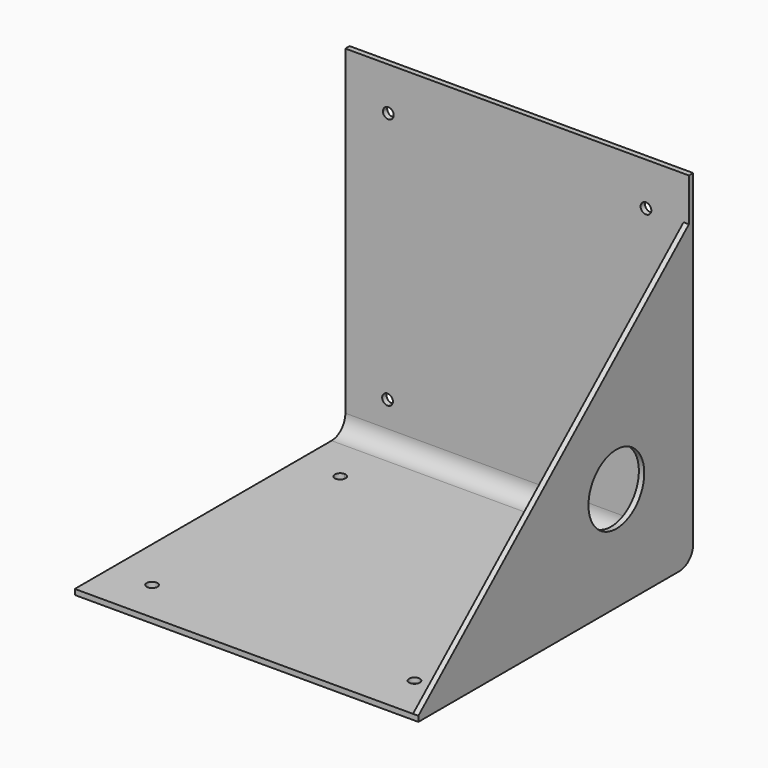
from build123d import *

# Parameters (mm, degrees)
F1_DEPTH  = 101.6
F0_W      = 50.8
F0_H      = 100.0125
F0_R      = 1.5875
F2_DEPTH  = 1.5875
F4_DEPTH  = 1.5875
F5_R      = 5.08
F6_R      = 5.08
F7_R      = 1.5875
F8_DEPTH  = 25.4
F10_R     = 10.3124
F11_DEPTH = 25.4


with BuildPart() as f1:
    # F0 (on Front) → F1 (new body)
    with BuildSketch(Plane.XZ):
        Polygon((-38.6839361429, -44.711994803), (-51.3839361429, -44.711994803), (-51.3839361429, -46.299494803), (50.2160638571, -46.299494803), (50.2160638571, -44.711994803), (-0.5839361429, -44.711994803), align=None)
    extrude(amount=F1_DEPTH)

    # F0 (on Front) → F2 (join)
    with BuildSketch(Plane.XZ):
        with BuildLine():
            Line((-38.6839361429, 55.300505197), (-51.3839361429, 55.300505197))
            Line((-51.3839361429, 55.300505197), (-51.3839361429, 42.600505197))
            Line((-51.3839361429, 42.600505197), (-40.2714361429, 42.600505197))
            ThreePointArc((-40.2714361429, 42.600505197), (-39.8064681581, 43.7230372122), (-38.6839361429, 44.188005197))
            Line((-38.6839361429, 44.188005197), (-38.6839361429, 55.300505197))
        make_face()
        with BuildLine():
            Line((-0.5839361429, 55.300505197), (-38.6839361429, 55.300505197))
            Line((-38.6839361429, 55.300505197), (-38.6839361429, 44.188005197))
            ThreePointArc((-38.6839361429, 44.188005197), (-37.5614041278, 43.7230372122), (-37.0964361429, 42.600505197))
            ThreePointArc((-37.0964361429, 42.600505197), (-38.6839361429, 41.013005197), (-40.2714361429, 42.600505197))
            Line((-40.2714361429, 42.600505197), (-51.3839361429, 42.600505197))
            Line((-51.3839361429, 42.600505197), (-51.3839361429, -44.711994803))
            Line((-51.3839361429, -44.711994803), (-38.6839361429, -44.711994803))
            Line((-38.6839361429, -44.711994803), (-0.5839361429, -44.711994803))
            Line((-0.5839361429, -44.711994803), (-0.5839361429, 55.300505197))
        make_face()
        with BuildLine():
            ThreePointArc((-37.3273452338, -32.01409415), (-37.7821543509, -33.1263745165), (-38.8859815975, -33.6013317316))
            ThreePointArc((-38.8859815975, -33.6013317316), (-40.0475361168, -30.9018137835), (-37.3273452338, -32.01409415))
        make_face(mode=Mode.SUBTRACT)
        with Locations((24.8160638571, 5.294255197)):
            Rectangle(F0_W, F0_H)
        with Locations((37.746972948, -32.01409415)):
            Circle(F0_R, mode=Mode.SUBTRACT)
        with Locations((37.5160638571, 42.600505197)):
            Circle(F0_R, mode=Mode.SUBTRACT)
        Polygon((-38.6839361429, -44.711994803), (-51.3839361429, -44.711994803), (-51.3839361429, -46.299494803), (50.2160638571, -46.299494803), (50.2160638571, -44.711994803), (-0.5839361429, -44.711994803), align=None)
    extrude(amount=F2_DEPTH)

    # F5
    f5_edges = [f1.edges().sort_by_distance(p)[0] for p in [
        (-0.583936, 0, -46.299495),
    ]]
    fillet(f5_edges, radius=F5_R)

    # F6
    f6_edges = [f1.edges().sort_by_distance(p)[0] for p in [
        (-0.583936, -1.5875, -44.711995),
    ]]
    fillet(f6_edges, radius=F6_R)

    # F7 (on face) → F8 (cut)
    with BuildSketch(Plane.XY.offset(-44.711994803)):
        with BuildLine():
            ThreePointArc((-38.6839361429, -17.78), (-39.8064681581, -20.4900320151), (-37.0964361429, -19.3675))
            ThreePointArc((-37.0964361429, -19.3675), (-37.5614041278, -18.2449679849), (-38.6839361429, -17.78))
        make_face()
        with Locations((-38.6839361429, -88.9)):
            Circle(F7_R)
        with Locations((37.6694120758, -18.8978454596)):
            Circle(F7_R)
        with Locations((38.5247778081, -88.4250840479)):
            Circle(F7_R)
    extrude(amount=-F8_DEPTH, mode=Mode.SUBTRACT)


with BuildPart() as f4:
    # F3 (on face) → F4 (new body)
    with BuildSketch(Plane.YZ.offset(50.2160638571)):
        Polygon((-1.5875, -44.711994803), (-1.5875, 42.600505197), (-101.6, -44.711994803), align=None)
    extrude(amount=-F4_DEPTH)

    # F9: union F1
    add(f1.part)

    # F10 (on face) → F11 (cut)
    with BuildSketch(Plane.YZ.offset(50.2160638571)):
        with Locations((-28.4118975516, -15.4491972514)):
            Circle(F10_R)
    extrude(amount=-F11_DEPTH, mode=Mode.SUBTRACT)


solid = f4.part
